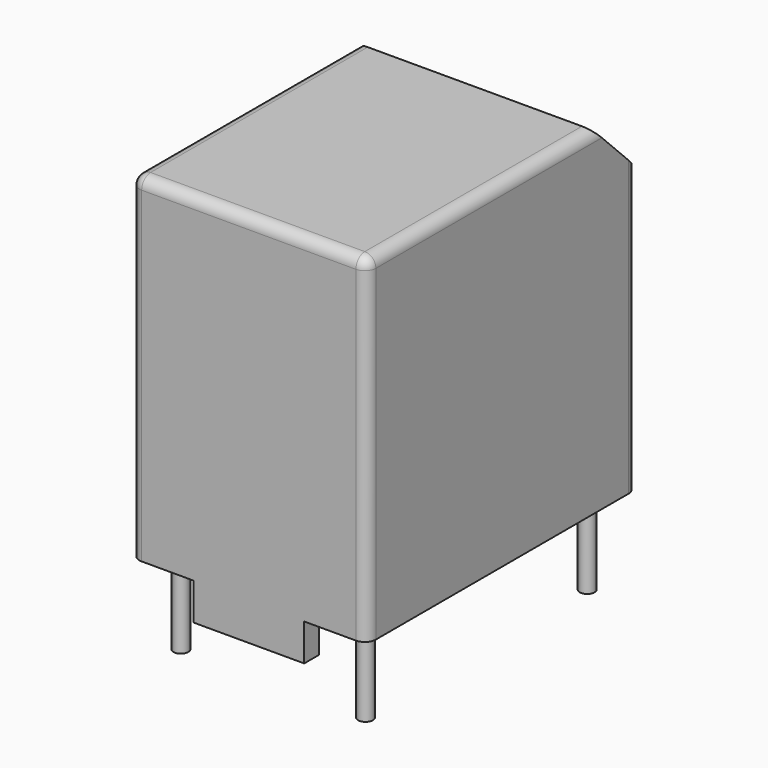
from build123d import *

# Parameters (mm, degrees)
CYLINDER_R        = 0.4
CYLINDER_DEPTH    = 4.6
CYLINDER001_R     = 0.4
CYLINDER001_DEPTH = 4.6
CYLINDER002_R     = 0.4
CYLINDER002_DEPTH = 4.6
CYLINDER003_R     = 0.4
CYLINDER003_DEPTH = 4.6
BOX003_W          = 12.8
BOX003_H          = 16.299999
BOX003_DEPTH      = 2
BOX002_W          = 3.4
BOX002_H          = 18.299999
BOX002_DEPTH      = 2
BOX001_W          = 3.4
BOX001_H          = 18.299999
BOX001_DEPTH      = 2
BOX_W             = 12.8
BOX_H             = 18.299999
BOX_DEPTH         = 20.299999
CHAMFER_SIZE      = 3
FILLET_R          = 0.6


with BuildPart() as pin4:
    # Cylinder → Cylinder (new body)
    with BuildSketch(Plane(origin=(1.4, 1.65, -2.6), x_dir=(1, 0, 0), z_dir=(0, 0, 1))):
        Circle(CYLINDER_R)
    extrude(amount=CYLINDER_DEPTH)


with BuildPart() as pin3:
    # Cylinder001 → Cylinder001 (new body)
    with BuildSketch(Plane(origin=(11.4, 1.65, -2.6), x_dir=(1, 0, 0), z_dir=(0, 0, 1))):
        Circle(CYLINDER001_R)
    extrude(amount=CYLINDER001_DEPTH)


with BuildPart() as pin2:
    # Cylinder002 → Cylinder002 (new body)
    with BuildSketch(Plane(origin=(11.4, 16.65, -2.6), x_dir=(1, 0, 0), z_dir=(0, 0, 1))):
        Circle(CYLINDER002_R)
    extrude(amount=CYLINDER002_DEPTH)


with BuildPart() as pin1:
    # Cylinder003 → Cylinder003 (new body)
    with BuildSketch(Plane(origin=(1.4, 16.65, -2.6), x_dir=(1, 0, 0), z_dir=(0, 0, 1))):
        Circle(CYLINDER003_R)
    extrude(amount=CYLINDER003_DEPTH)


with BuildPart() as box003:
    # Box003 → Box003 (new body)
    with BuildSketch(Plane(origin=(0, 1, 0), x_dir=(1, 0, 0), z_dir=(0, 0, 1))):
        with Locations((6.4, 8.149999)):
            Rectangle(BOX003_W, BOX003_H)
    extrude(amount=BOX003_DEPTH)


with BuildPart() as right_cutout:
    # Box002 → Box002 (new body)
    with BuildSketch(Plane(origin=(9.4, 0, 0), x_dir=(1, 0, 0), z_dir=(0, 0, 1))):
        with Locations((1.7, 9.149999)):
            Rectangle(BOX002_W, BOX002_H)
    extrude(amount=BOX002_DEPTH)


with BuildPart() as left_cutout:
    # Box001 → Box001 (new body)
    with BuildSketch(Plane.XY):
        with Locations((1.7, 9.149999)):
            Rectangle(BOX001_W, BOX001_H)
    extrude(amount=BOX001_DEPTH)


with BuildPart() as obj1:
    # Box → Box (new body)
    with BuildSketch(Plane.XY):
        with Locations((6.4, 9.149999)):
            Rectangle(BOX_W, BOX_H)
    extrude(amount=BOX_DEPTH)

    # Cut: cut left_cutout
    add(left_cutout.part, mode=Mode.SUBTRACT)

    # Cut001: cut right_cutout
    add(right_cutout.part, mode=Mode.SUBTRACT)

    # Cut002: cut Box003
    add(box003.part, mode=Mode.SUBTRACT)

    # Chamfer
    chamfer_edges = [obj1.edges().sort_by_distance(p)[0] for p in [
        (6.4, 18.299999, 20.299999),
    ]]
    chamfer(chamfer_edges, length=CHAMFER_SIZE)

    # Fillet
    fillet_edges = [obj1.edges().sort_by_distance(p)[0] for p in [
        (0, 7.65, 20.299999),
        (6.4, 0, 20.299999),
        (12.8, 7.65, 20.299999),
        (0, 0, 11.15),
        (0, 18.299999, 9.65),
        (12.8, 0, 11.15),
        (12.8, 18.299999, 9.65),
    ]]
    fillet(fillet_edges, radius=FILLET_R)

    # Fusion: union Pin4, Pin3, Pin2, Pin1
    add(pin4.part)
    add(pin3.part)
    add(pin2.part)
    add(pin1.part)


solid = obj1.part
